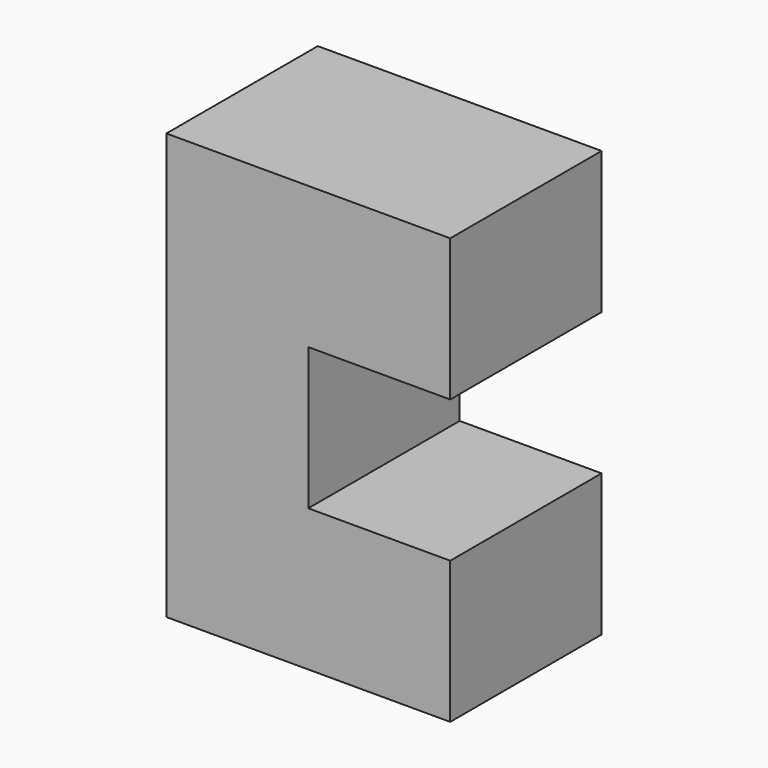
from build123d import *

# Parameters (mm, degrees)
F0_W     = 19.05
F0_H     = 19.05
F1_DEPTH = 12.7
F2_DEPTH = 12.7


with BuildPart() as f1:
    # F0 (on Front) → F1 (new body, symmetric)
    with BuildSketch(Plane.XZ):
        Polygon((-62.395418, 10.962621), (-43.345418, 10.962621), (-43.345418, 10.962862), (-43.345418, 30.012862), (-43.345418, 49.062621), (-43.345418, 68.112621), (-62.395418, 68.112621), align=None)
        with Locations((-33.820418, 20.487862)):
            Rectangle(F0_W, F0_H)
        with Locations((-33.820418, 58.587621)):
            Rectangle(F0_W, F0_H)
    extrude(amount=F1_DEPTH, both=True)

    # F0 (on Front) → F2 (join, symmetric)
    with BuildSketch(Plane.XZ):
        Polygon((-62.395418, 10.962621), (-43.345418, 10.962621), (-43.345418, 10.962862), (-43.345418, 30.012862), (-43.345418, 49.062621), (-43.345418, 68.112621), (-62.395418, 68.112621), align=None)
        with Locations((-33.820418, 20.487862)):
            Rectangle(F0_W, F0_H)
        with Locations((-33.820418, 58.587621)):
            Rectangle(F0_W, F0_H)
    extrude(amount=F2_DEPTH, both=True)


solid = f1.part
